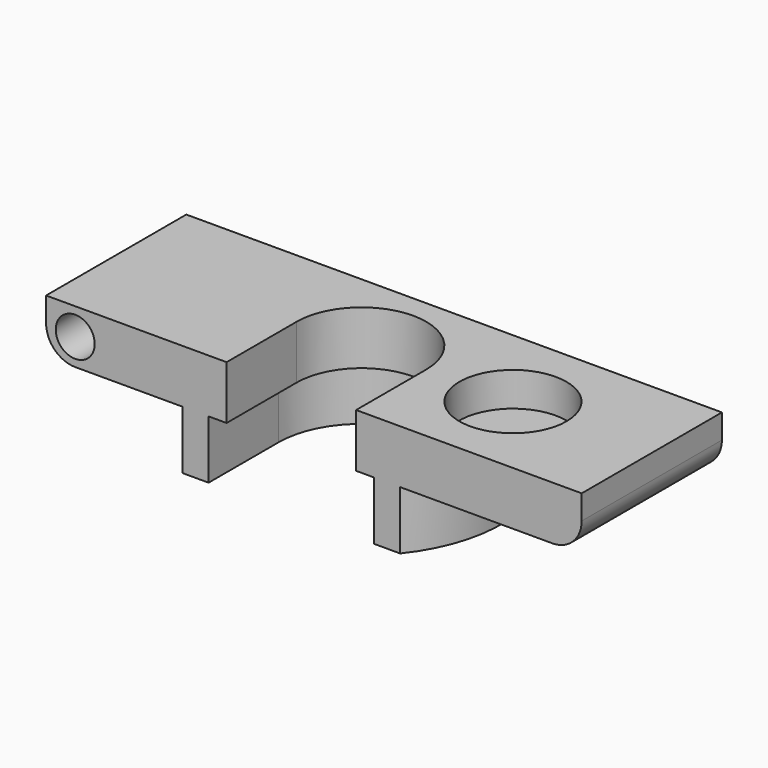
from build123d import *

# Parameters (mm, degrees)
PAD_DEPTH       = 5.5
SKETCH006_R     = 2
POCKET001_DEPTH = 50
SKETCH004_R     = 5.5
POCKET_DEPTH    = 3.5
PAD001_DEPTH    = 6
FILLET_R        = 3


with BuildPart() as pocket:
    # Sketch → Pad (new body)
    with BuildSketch(Plane.XY.offset(6)):
        with BuildLine():
            ThreePointArc((6.65, 0), (0, 6.65), (-6.65, 0))
            Line((-6.65, 0), (-6.65, -9))
            Line((-6.65, -9), (-25.186368, -9))
            Line((-25.186368, -9), (-25.186368, 9))
            Line((-25.186368, 9), (29.813632, 9))
            Line((29.813632, 9), (29.813632, -9))
            Line((29.813632, -9), (6.65, -9))
            Line((6.65, 0), (6.65, -9))
        make_face()
    extrude(amount=PAD_DEPTH)

    # Sketch006 → Pocket001 (cut)
    with BuildSketch(Plane(origin=(0, -9, 6), x_dir=(1, 0, 0), z_dir=(0, -1, 0))):
        with Locations((-22.194616, 2.739605)):
            Circle(SKETCH006_R)
    extrude(amount=-POCKET001_DEPTH, mode=Mode.SUBTRACT)

    # Sketch004 → Pocket (cut)
    with BuildSketch(Plane.XY.offset(11.5)):
        with Locations((15.55286, 0)):
            Circle(SKETCH004_R)
    extrude(amount=-POCKET_DEPTH, mode=Mode.SUBTRACT)


with BuildPart() as fillet_body:
    # Sketch005 → Pad001 (new body)
    with BuildSketch(Plane(origin=(0, 0, 0), x_dir=(1, 0, 0), z_dir=(0, 0, -1))):
        with BuildLine():
            ThreePointArc((-8.5, 0), (0, -8.5), (8.5, 0))
            Line((8.5, 0), (8.5, 9))
            Line((8.5, 9), (11.167023, 9))
            ThreePointArc((11.167023, -9), (14.342329, 0), (11.167023, 9))
            Line((-12.044614, -9), (11.167023, -9))
            ThreePointArc((-11.167023, 9), (-14.785971, 0.155049), (-12.044614, -9))
            Line((-8.5, 9), (-11.167023, 9))
            Line((-8.5, 0), (-8.5, 9))
        make_face()
    extrude(amount=-PAD001_DEPTH)

    # Fusion: union Pocket
    add(pocket.part)

    # Fillet
    fillet_edges = [fillet_body.edges().sort_by_distance(p)[0] for p in [
        (-25.186368, 0, 6),
        (29.813632, 0, 6),
    ]]
    fillet(fillet_edges, radius=FILLET_R)


solid = fillet_body.part
